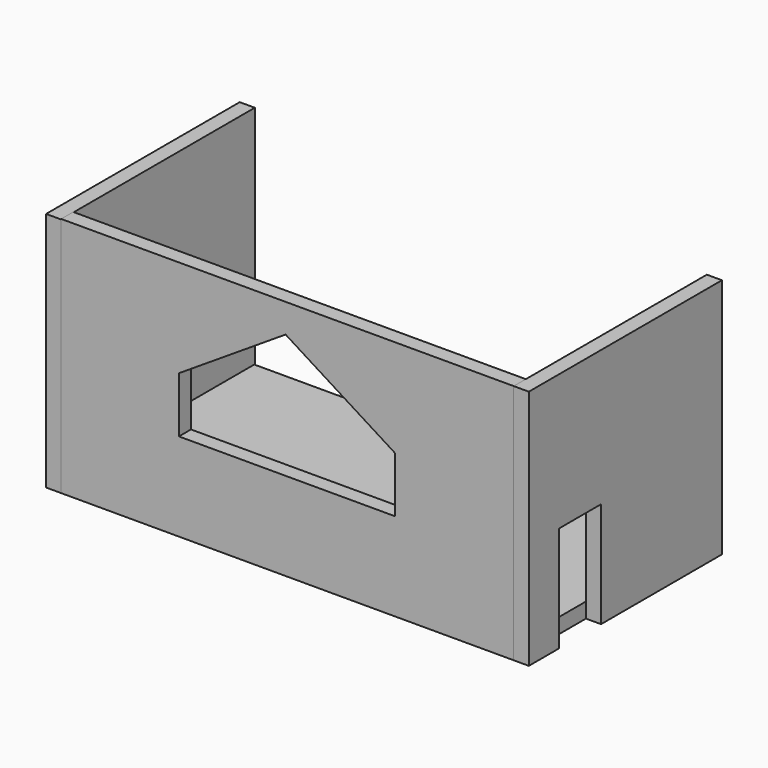
from build123d import *

# Parameters (mm, degrees)
F0_W      = 9144
F0_H      = 4572
F1_DEPTH  = 304.8
F2_W      = 9144
F2_H      = 4876.8
F3_DEPTH  = 304.8
F4_W      = 4876.8
F4_H      = 4876.8
F5_DEPTH  = 304.8
F6_W      = 4890.3621263981
F6_H      = 4867.1908378601
F7_DEPTH  = 304.8
F8_W      = 457.2
F8_H      = 457.2
F9_DEPTH  = 609.6
F10_W     = 1066.8
F10_H     = 2133.6
F11_DEPTH = 304.8
F12_W     = 2156.182050705
F12_H     = 1124.3895292282
F12_W_2   = 2209.0947628021
F13_DEPTH = 304.8


with BuildPart() as f1:
    # F0 (on Top) → F1 (new body)
    with BuildSketch(Plane.XY):
        with Locations((1395.8555042158, 12.6634538174)):
            Rectangle(F0_W, F0_H)
    extrude(amount=F1_DEPTH)


with BuildPart() as f3:
    # F2 (on face) → F3 (new body)
    with BuildSketch(Plane.XZ.offset(2273.3365461826)):
        with Locations((1395.8555042158, 2438.4)):
            Rectangle(F2_W, F2_H)
    extrude(amount=F3_DEPTH)

    # F12 (on face) → F13 (cut)
    with BuildSketch(Plane.XZ.offset(2578.1365461826)):
        Polygon((1358.8061332703, 4295.3300476074), (-797.3759174347, 2906.3782691956), (1358.8061332703, 2906.3782691956), (3567.9008960724, 2906.3782691956), align=None)
        with Locations((280.7151079178, 2344.1835045815)):
            Rectangle(F12_W, F12_H)
        with Locations((2463.3535146713, 2344.1835045815)):
            Rectangle(F12_W_2, F12_H)
    extrude(amount=-F13_DEPTH, mode=Mode.SUBTRACT)


with BuildPart() as f5:
    # F4 (on face) → F5 (new body)
    with BuildSketch(Plane.YZ.offset(5967.8555042158)):
        with Locations((-139.7365461826, 2438.4)):
            Rectangle(F4_W, F4_H)
    extrude(amount=F5_DEPTH)

    # F10 (on face) → F11 (cut)
    with BuildSketch(Plane.YZ.offset(6272.6555042158)):
        with Locations((-1287.8959766388, 1066.8)):
            Rectangle(F10_W, F10_H)
    extrude(amount=-F11_DEPTH, mode=Mode.SUBTRACT)


with BuildPart() as f7:
    # F6 (on face) → F7 (new body)
    with BuildSketch(Plane(origin=(-3176.1444957842, 0, 0), x_dir=(0, -1, 0), z_dir=(-1, 0, 0))):
        with Locations((132.9554829836, 2433.5954189301)):
            Rectangle(F6_W, F6_H)
    extrude(amount=F7_DEPTH)

    # F8 (on face) → F9 (cut)
    with BuildSketch(Plane(origin=(-3480.9444957842, 0, 0), x_dir=(0, -1, 0), z_dir=(-1, 0, 0))):
        with Locations((1311.5199804306, 3037.5073265517)):
            Rectangle(F8_W, F8_H)
    extrude(amount=-F9_DEPTH, mode=Mode.SUBTRACT)


solid = Compound([f1.part, f3.part, f5.part, f7.part])
